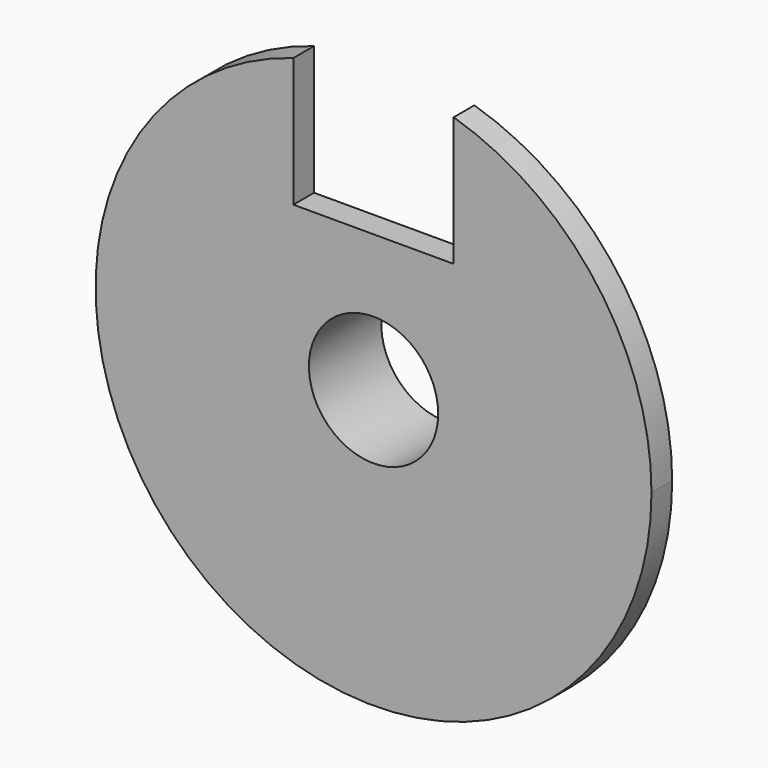
from build123d import *

# Parameters (mm, degrees)
F1_DEPTH = 2.54
F2_DEPTH = 6.35


with BuildPart() as f1:
    # F0 (on Front) → F1 (new body)
    with BuildSketch(Plane.XZ):
        with BuildLine():
            ThreePointArc((-7.874, 26.145041), (-16.287471, -21.915321), (27.305, 0))
            ThreePointArc((27.305, 0), (21.915321, 16.287471), (7.874, 26.145041))
            Line((7.874, 26.145041), (7.874, 13.462))
            Line((7.874, 13.462), (0, 13.462))
            Line((0, 13.462), (-7.874, 13.462))
            Line((-7.874, 13.462), (-7.874, 26.145041))
        make_face()
        with BuildLine():
            ThreePointArc((8.255, 0), (-5.837166, -5.837166), (0, 8.255))
            ThreePointArc((0, 8.255), (5.837166, 5.837166), (8.255, 0))
        make_face(mode=Mode.SUBTRACT)
        with BuildLine():
            ThreePointArc((8.255, 0), (5.837166, 5.837166), (0, 8.255))
            ThreePointArc((0, 8.255), (-5.837166, -5.837166), (8.255, 0))
        make_face()
        with BuildLine():
            ThreePointArc((6.35, 0), (-4.490128, -4.490128), (0, 6.35))
            ThreePointArc((0, 6.35), (4.490128, 4.490128), (6.35, 0))
        make_face(mode=Mode.SUBTRACT)
    extrude(amount=F1_DEPTH)

    # F0 (on Front) → F2 (join)
    with BuildSketch(Plane.XZ):
        with BuildLine():
            ThreePointArc((8.255, 0), (5.837166, 5.837166), (0, 8.255))
            ThreePointArc((0, 8.255), (-5.837166, -5.837166), (8.255, 0))
        make_face()
        with BuildLine():
            ThreePointArc((6.35, 0), (-4.490128, -4.490128), (0, 6.35))
            ThreePointArc((0, 6.35), (4.490128, 4.490128), (6.35, 0))
        make_face(mode=Mode.SUBTRACT)
    extrude(amount=-F2_DEPTH)


solid = f1.part
